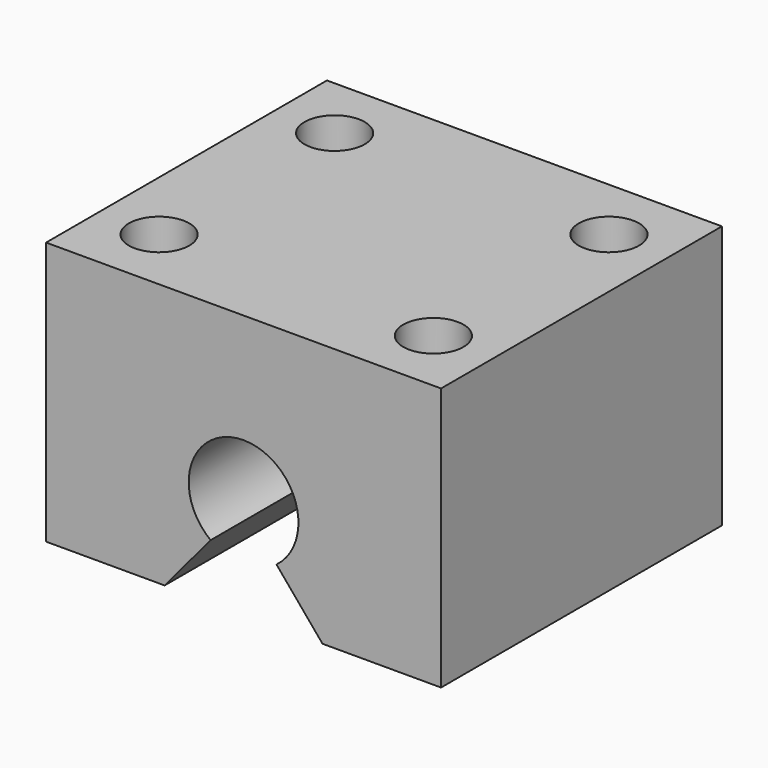
from build123d import *

# Parameters (mm, degrees)
F1_DEPTH = 16
F3_D     = 5.5
F3_DEPTH = 10
F3_TIP   = 1.6523667023


with BuildPart() as f1:
    # F0 (on Front) → F1 (new body, symmetric)
    with BuildSketch(Plane.XZ):
        with BuildLine():
            ThreePointArc((-3, -4), (0, 5), (3, -4))
            Line((3, -4), (7.1954981559, -9))
            Line((7.1954981559, -9), (18, -9))
            Line((18, -9), (18, 15))
            Line((18, 15), (-18, 15))
            Line((-18, 15), (-18, -9))
            Line((-18, -9), (-7.1954981559, -9))
            Line((-7.1954981559, -9), (-3, -4))
        make_face()
    extrude(amount=F1_DEPTH, both=True)

    # F3
    with Locations(Plane.XY.offset(15)):
        with Locations((-12.5, 10), (-12.5, -10), (12.5, -10), (12.5, 10)):
            Hole(F3_D / 2, depth=F3_DEPTH)
            with Locations((0, 0, -(F3_DEPTH + F3_TIP / 2))):  # 118° drill point
                Cone(0, F3_D / 2, F3_TIP, mode=Mode.SUBTRACT)


solid = f1.part
